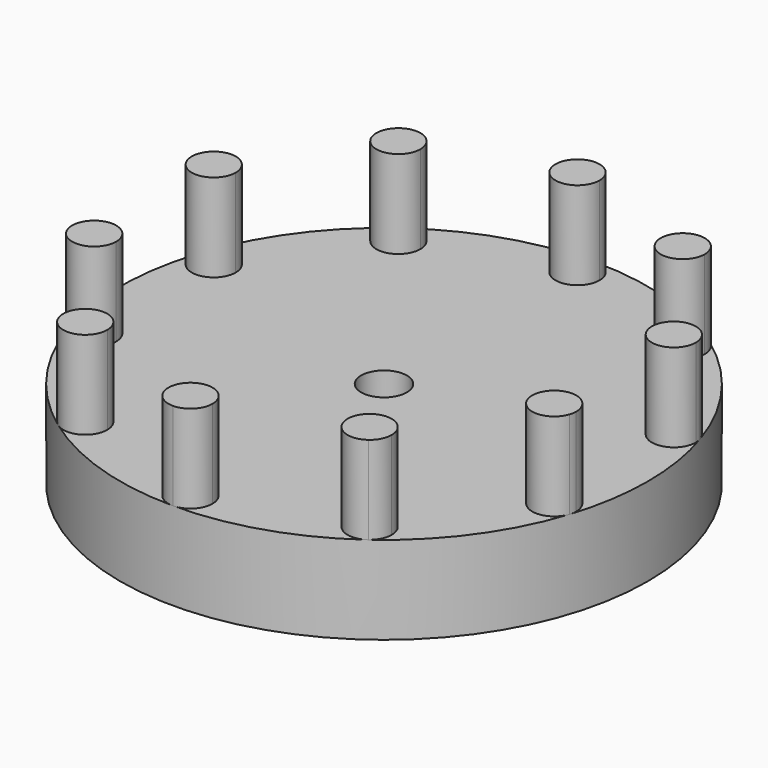
from build123d import *

# Parameters (mm, degrees)
F0_R     = 38.1
F0_R_2   = 3.302
F1_DEPTH = 12.7
F3_DEPTH = 12.7
F4_DEPTH = 12.7


with BuildPart() as f1:
    # F0 (on Top) → F1 (new body)
    with BuildSketch(Plane.XY):
        Circle(F0_R)
        Circle(F0_R_2, mode=Mode.SUBTRACT)
    extrude(amount=F1_DEPTH)

    # F2 (on face) → F3 (join)
    with BuildSketch(Plane.XY.offset(12.7)):
        with BuildLine():
            ThreePointArc((23.7034, 28.254919), (23.357346, 29.696338), (22.394618, 30.823547))
            ThreePointArc((22.394618, 30.823547), (17.699454, 26.813499), (23.7034, 28.254919))
        make_face()
        with BuildLine():
            ThreePointArc((36.390649, 10.792419), (36.351559, 11.289098), (36.235253, 11.773548))
            ThreePointArc((36.235253, 11.773548), (30.079738, 10.295739), (36.390649, 10.792419))
        make_face()
        with BuildLine():
            ThreePointArc((36.390649, -10.792419), (30.079738, -10.295739), (36.235253, -11.773548))
            ThreePointArc((36.235253, -11.773548), (36.351559, -11.289098), (36.390649, -10.792419))
        make_face()
        with BuildLine():
            ThreePointArc((23.7034, -28.254919), (17.699454, -26.813499), (22.394618, -30.823547))
            ThreePointArc((22.394618, -30.823547), (23.357346, -29.696338), (23.7034, -28.254919))
        make_face()
    extrude(amount=F3_DEPTH)

    # F2 (on face) → F4 (join)
    with BuildSketch(Plane.XY.offset(12.7)):
        with BuildLine():
            ThreePointArc((0, 38.1), (-2.245064, 32.679936), (3.175, 34.925))
            ThreePointArc((3.175, 34.925), (2.245064, 37.170064), (0, 38.1))
        make_face()
        with BuildLine():
            ThreePointArc((-17.3534, 28.254919), (-19.08698, 31.083864), (-22.394618, 30.823547))
            ThreePointArc((-22.394618, 30.823547), (-21.96982, 25.425973), (-17.3534, 28.254919))
        make_face()
        with BuildLine():
            ThreePointArc((-30.040649, 10.792419), (-32.718969, 13.928329), (-36.235253, 11.773547))
            ThreePointArc((-36.235253, 11.773547), (-33.712328, 7.656508), (-30.040649, 10.792419))
        make_face()
        with BuildLine():
            ThreePointArc((-30.040649, -10.792419), (-33.712328, -7.656508), (-36.235253, -11.773547))
            ThreePointArc((-36.235253, -11.773547), (-32.71897, -13.928329), (-30.040649, -10.792419))
        make_face()
        with BuildLine():
            ThreePointArc((-17.3534, -28.254919), (-21.96982, -25.425973), (-22.394618, -30.823547))
            ThreePointArc((-22.394618, -30.823547), (-19.08698, -31.083864), (-17.3534, -28.254919))
        make_face()
        with BuildLine():
            ThreePointArc((3.175, -34.925), (-2.245064, -32.679936), (0, -38.1))
            ThreePointArc((0, -38.1), (2.245064, -37.170064), (3.175, -34.925))
        make_face()
    extrude(amount=F4_DEPTH)


solid = f1.part
